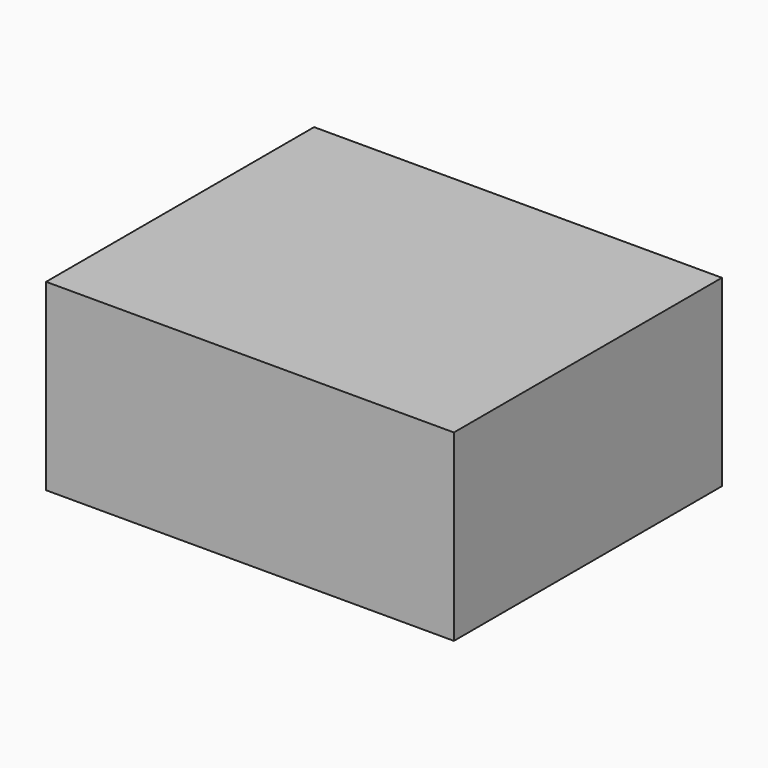
from build123d import *

# Parameters (mm, degrees)
F0_W     = 56.450994
F0_H     = 46.370463
F1_DEPTH = 25.4
F2_R     = 10.418213
F3_DEPTH = 12.7


with BuildPart() as f1:
    # F0 (on Top) → F1 (new body)
    with BuildSketch(Plane.XY):
        with Locations((-20.85122, 5.932314)):
            Rectangle(F0_W, F0_H)
    extrude(amount=F1_DEPTH)


with BuildPart() as f3:
    # F2 (on face) → F3 (new body, symmetric)
    with BuildSketch(Plane.XY.offset(25.4)):
        with Locations((-23.669293, 5.861445)):
            Circle(F2_R)
    extrude(amount=F3_DEPTH, both=True)


solid = f1.part
